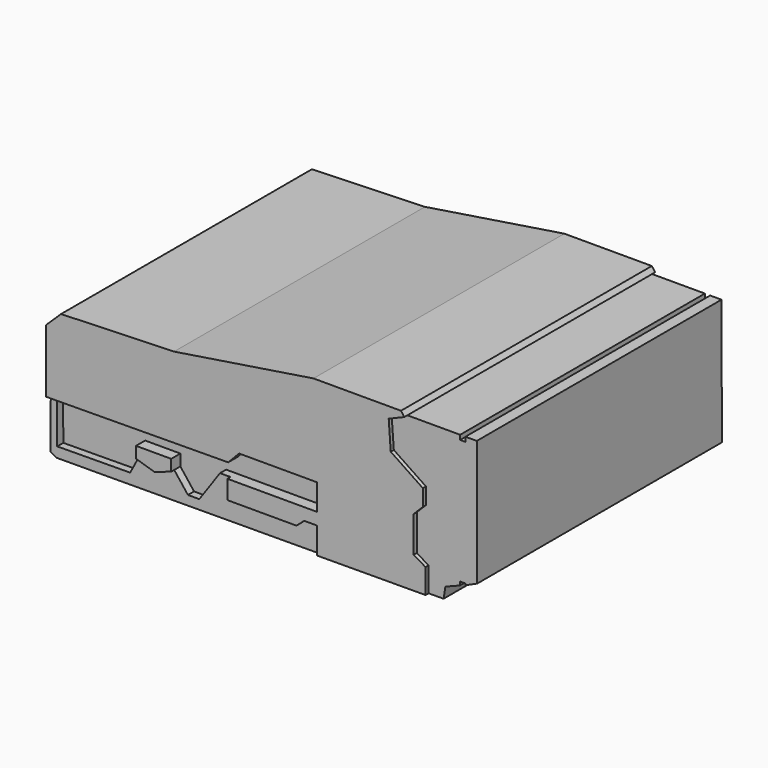
from build123d import *

# Parameters (mm, degrees)
F1_DEPTH = 12.7
F2_DEPTH = 13.0175
F3_DEPTH = 12.065
F4_DEPTH = 13.0175
F5_DEPTH = 13.0175
F6_DEPTH = 12.7


with BuildPart() as f1:
    # F0 (on Front) → F1 (new body, symmetric)
    with BuildSketch(Plane.XZ):
        Polygon((28.078623, 2.014946), (28.042302, 12.433615), (27.101992, 12.433615), (27.101992, 12.053489), (26.661847, 12.053489), (26.661847, 12.433615), (22.280401, 12.433615), (20.983042, 11.892567), (21.152996, 9.532103), (23.8156, 7.73815), (23.8156, 6.359639), (23.060251, 5.60429), (23.060251, 2.620663), (24.042204, 2.035267), (24.042204, -0.005739), (25.287887, 0), (25.434768, 0.933369), (26.649874, 1.414069), (26.649874, 1.707831), (27.103869, 1.707831), (27.103869, 1.574303), align=None)
    extrude(amount=F1_DEPTH, both=True)

    # F0 (on Front) → F2 (join, symmetric)
    with BuildSketch(Plane.XZ):
        Polygon((20.983042, 11.892567), (22.280401, 12.433615), (22.003097, 12.804012), (14.739173, 12.804012), (3.162292, 11.001383), (-6.224729, 10.694268), (-7.46654, 9.492517), (-7.46654, 4.244864), (-7.106014, 4.244864), (-6.822593, 4.247176), (1.793046, 4.317466), (1.793046, 5.308367), (2.968092, 5.895891), (4.589082, 5.333918), (4.597188, 4.340344), (7.655644, 4.365296), (8.564113, 5.307411), (15.015916, 5.307411), (15.015916, 3.14395), (15.015916, 2.14362), (15.015916, -0.047328), (24.042204, -0.005739), (24.042204, 2.035267), (23.060251, 2.620663), (23.060251, 5.60429), (23.8156, 6.359639), (23.8156, 7.73815), (21.152996, 9.532103), align=None)
    extrude(amount=F2_DEPTH, both=True)

    # F0 (on Front) → F3 (join, symmetric)
    with BuildSketch(Plane.XZ):
        Polygon((7.581856, 3.14395), (15.015916, 3.14395), (15.015916, 5.307411), (8.564113, 5.307411), (7.655644, 4.365296), (4.597188, 4.340344), (1.793046, 4.317466), (-6.822593, 4.247176), (-6.793687, 0.704036), (-0.741626, 0.753411), (0, 2.14362), (0, 3.08393), (2.920319, 3.08393), (2.920319, 2.14362), (4.060694, 0.683138), (5.001005, 0.683138), (6.721572, 3.14395), align=None)
    extrude(amount=F3_DEPTH, both=True)

    # F0 (on Front) → F4 (join, symmetric)
    with BuildSketch(Plane.XZ):
        Polygon((13.963961, 2.14362), (15.015916, 2.14362), (15.015916, 3.14395), (7.581856, 3.14395), (7.581856, 1.583435), (13.323751, 1.583435), align=None)
        Polygon((0, 3.08393), (0, 2.14362), (1.525989, 1.676405), (2.920319, 2.14362), (2.920319, 3.08393), align=None)
    extrude(amount=F4_DEPTH, both=True)

    # F0 (on Front) → F5 (join, symmetric)
    with BuildSketch(Plane.XZ):
        Polygon((1.793046, 5.308367), (1.793046, 4.317466), (4.597188, 4.340344), (4.589082, 5.333918), (2.968092, 5.895891), align=None)
    extrude(amount=F5_DEPTH, both=True)

    # F0 (on Front) → F6 (join, symmetric)
    with BuildSketch(Plane.XZ):
        Polygon((-6.879017, -0.148209), (15.015916, -0.047328), (15.015916, 2.14362), (13.963961, 2.14362), (13.323751, 1.583435), (7.581856, 1.583435), (7.581856, 3.14395), (6.721572, 3.14395), (5.001005, 0.683138), (4.060694, 0.683138), (2.920319, 2.14362), (1.525989, 1.676405), (0, 2.14362), (-0.741626, 0.753411), (-6.793687, 0.704036), (-6.822593, 4.247176), (-7.106014, 4.244864), (-7.346365, 3.870985), (-7.346365, 0.145553), align=None)
    extrude(amount=F6_DEPTH, both=True)


solid = f1.part
